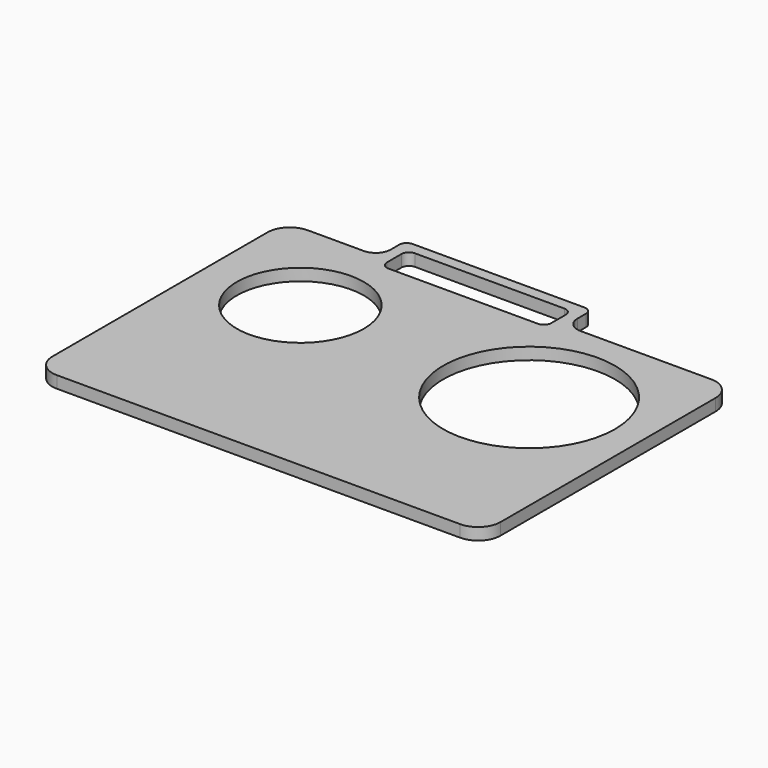
from build123d import *

# Parameters (mm, degrees)
F0_W     = 60
F0_H     = 42
F1_DEPTH = 1.6
F2_R     = 11.5
F2_R_2   = 8.5
F3_DEPTH = 1.601
F5_DEPTH = 1.6
F6_R     = 3
F7_R     = 2
F8_W     = 22
F8_H     = 1.5
F9_DEPTH = 1.601
F10_R    = 1


with BuildPart() as f1:
    # F0 (on Top) → F1 (new body)
    with BuildSketch(Plane.XY):
        Rectangle(F0_W, F0_H)
    extrude(amount=F1_DEPTH)

    # F2 (on face) → F3 (cut, through all)
    with BuildSketch(Plane.XY.offset(1.6)):
        with Locations((14.7, 5.9)):
            Circle(F2_R)
        with Locations((-17, 7.25)):
            Circle(F2_R_2)
    extrude(amount=-F3_DEPTH, mode=Mode.SUBTRACT)

    # F4 (on Top) → F5 (join)
    with BuildSketch(Plane.XY):
        Polygon((-17.5, 25.4231041372), (-17.5, 20.9231041372), (-16, 20.9231041372), (-16, 23.9231041372), (6, 23.9231041372), (6, 20.9231041372), (7.5, 20.9231041372), (7.5, 25.4231041372), align=None)
    extrude(amount=F5_DEPTH)

    # F6
    f6_edges = [f1.edges().sort_by_distance(p)[0] for p in [
        (-30, 21, 0.8),
        (-30, -21, 0.8),
        (30, 21, 0.8),
        (30, -21, 0.8),
    ]]
    fillet(f6_edges, radius=F6_R)

    # F7
    f7_edges = [f1.edges().sort_by_distance(p)[0] for p in [
        (-17.5, 21, 0.8),
        (7.5, 21, 0.8),
    ]]
    fillet(f7_edges, radius=F7_R)

    # F8 (on face) → F9 (cut, through all)
    with BuildSketch(Plane.XY.offset(1.6)):
        with Locations((-5, 20.25)):
            Rectangle(F8_W, F8_H)
    extrude(amount=-F9_DEPTH, mode=Mode.SUBTRACT)

    # F10
    f10_edges = [f1.edges().sort_by_distance(p)[0] for p in [
        (-16, 23.923104, 0.8),
        (6, 23.923104, 0.8),
        (7.5, 25.423104, 0.8),
        (-17.5, 25.423104, 0.8),
        (-16, 19.5, 0.8),
        (6, 19.5, 0.8),
    ]]
    fillet(f10_edges, radius=F10_R)


solid = f1.part
